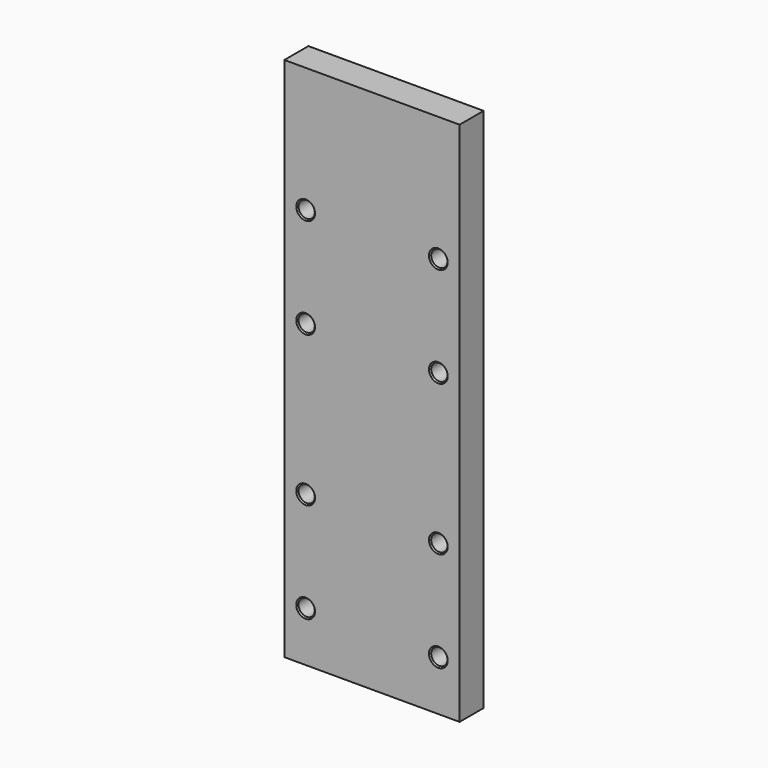
from build123d import *

# Parameters (mm, degrees)
F0_W     = 70
F0_H     = 210
F0_R     = 3.25
F1_DEPTH = 12
F2_SIZE  = 0.5


with BuildPart() as f1:
    # F0 (on Front) → F1 (new body)
    with BuildSketch(Plane.XZ):
        Rectangle(F0_W, F0_H)
        with Locations((-26.5, -85)):
            Circle(F0_R, mode=Mode.SUBTRACT)
        with Locations((-26.5, -45)):
            Circle(F0_R, mode=Mode.SUBTRACT)
        with Locations((26.5, -85)):
            Circle(F0_R, mode=Mode.SUBTRACT)
        with Locations((26.5, -45)):
            Circle(F0_R, mode=Mode.SUBTRACT)
        with Locations((-26.5, 15)):
            Circle(F0_R, mode=Mode.SUBTRACT)
        with Locations((-26.5, 55)):
            Circle(F0_R, mode=Mode.SUBTRACT)
        with Locations((26.5, 15)):
            Circle(F0_R, mode=Mode.SUBTRACT)
        with Locations((26.5, 55)):
            Circle(F0_R, mode=Mode.SUBTRACT)
    extrude(amount=F1_DEPTH)

    # F2
    f2_edges = [f1.edges().sort_by_distance(p)[0] for p in [
        (-23.25, -6, 55),
        (-29.75, 0, 55),
        (-29.75, -12, 55),
        (-23.25, -6, 15),
        (-29.75, 0, 15),
        (-29.75, -12, 15),
        (29.75, -6, 55),
        (23.25, 0, 55),
        (23.25, -12, 55),
        (29.75, -6, 15),
        (23.25, 0, 15),
        (23.25, -12, 15),
        (-23.25, -6, -45),
        (-29.75, 0, -45),
        (-29.75, -12, -45),
        (-23.25, -6, -85),
        (-29.75, 0, -85),
        (-29.75, -12, -85),
        (29.75, -6, -85),
        (23.25, 0, -85),
        (23.25, -12, -85),
        (29.75, -6, -45),
        (23.25, 0, -45),
        (23.25, -12, -45),
    ]]
    chamfer(f2_edges, length=F2_SIZE)


solid = f1.part
